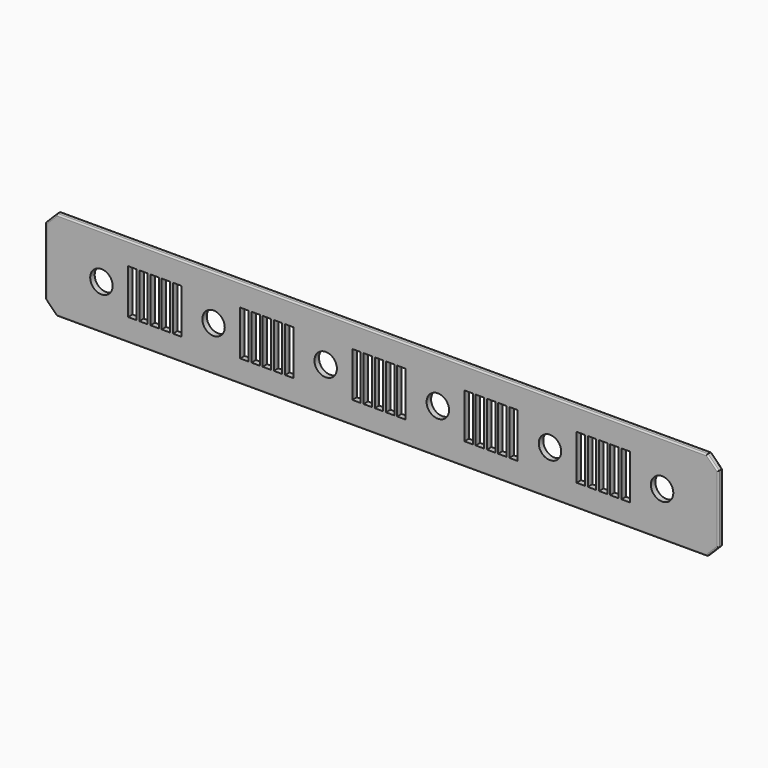
from build123d import *

# Parameters (mm, degrees)
F0_W     = 762
F0_H     = 101.6
F0_R     = 12.7
F1_DEPTH = 6.35
F2_W     = 9.525
F2_H     = 50.8
F3_DEPTH = 6.351
F4_SIZE  = 12.7
F5_R     = 1.6002


with BuildPart() as f1:
    # F0 (on Front) → F1 (new body)
    with BuildSketch(Plane.XZ):
        with Locations((-5.1130652428, -126.3789658944)):
            Rectangle(F0_W, F0_H)
        with Locations((-322.6130652428, -126.3789658944)):
            Circle(F0_R, mode=Mode.SUBTRACT)
        with Locations((-195.6130652428, -126.3789658944)):
            Circle(F0_R, mode=Mode.SUBTRACT)
        with Locations((-68.6130652428, -126.3789658944)):
            Circle(F0_R, mode=Mode.SUBTRACT)
        with Locations((58.3869347572, -126.3789658944)):
            Circle(F0_R, mode=Mode.SUBTRACT)
        with Locations((185.3869347572, -126.3789658944)):
            Circle(F0_R, mode=Mode.SUBTRACT)
        with Locations((312.3869347572, -126.3789658944)):
            Circle(F0_R, mode=Mode.SUBTRACT)
    extrude(amount=F1_DEPTH)

    # F2 (on face) → F3 (cut, through all)
    with BuildSketch(Plane.XZ.offset(6.35)):
        with Locations((-287.6753652428, -126.3789658944)):
            Rectangle(F2_W, F2_H)
        with Locations((-274.9753652428, -126.3789658944)):
            Rectangle(F2_W, F2_H)
        with Locations((-262.2753652428, -126.3789658944)):
            Rectangle(F2_W, F2_H)
        with Locations((-249.5753652428, -126.3789658944)):
            Rectangle(F2_W, F2_H)
        with Locations((-236.8753652428, -126.3789658944)):
            Rectangle(F2_W, F2_H)
        with Locations((-160.6753652428, -126.3789658944)):
            Rectangle(F2_W, F2_H)
        with Locations((-147.9753652428, -126.3789658944)):
            Rectangle(F2_W, F2_H)
        with Locations((-135.2753652428, -126.3789658944)):
            Rectangle(F2_W, F2_H)
        with Locations((-122.5753652428, -126.3789658944)):
            Rectangle(F2_W, F2_H)
        with Locations((-109.8753652428, -126.3789658944)):
            Rectangle(F2_W, F2_H)
        with Locations((-33.6753652428, -126.3789658944)):
            Rectangle(F2_W, F2_H)
        with Locations((-20.9753652428, -126.3789658944)):
            Rectangle(F2_W, F2_H)
        with Locations((-8.2753652428, -126.3789658944)):
            Rectangle(F2_W, F2_H)
        with Locations((4.4246347572, -126.3789658944)):
            Rectangle(F2_W, F2_H)
        with Locations((17.1246347572, -126.3789658944)):
            Rectangle(F2_W, F2_H)
        with Locations((93.3246347572, -126.3789658944)):
            Rectangle(F2_W, F2_H)
        with Locations((106.0246347572, -126.3789658944)):
            Rectangle(F2_W, F2_H)
        with Locations((118.7246347572, -126.3789658944)):
            Rectangle(F2_W, F2_H)
        with Locations((131.4246347572, -126.3789658944)):
            Rectangle(F2_W, F2_H)
        with Locations((144.1246347572, -126.3789658944)):
            Rectangle(F2_W, F2_H)
        with Locations((220.3246347572, -126.3789658944)):
            Rectangle(F2_W, F2_H)
        with Locations((233.0246347572, -126.3789658944)):
            Rectangle(F2_W, F2_H)
        with Locations((245.7246347572, -126.3789658944)):
            Rectangle(F2_W, F2_H)
        with Locations((258.4246347572, -126.3789658944)):
            Rectangle(F2_W, F2_H)
        with Locations((271.1246347572, -126.3789658944)):
            Rectangle(F2_W, F2_H)
    extrude(amount=-F3_DEPTH, mode=Mode.SUBTRACT)

    # F4
    f4_edges = [f1.edges().sort_by_distance(p)[0] for p in [
        (-386.113065, -3.175, -75.578966),
        (-386.113065, -3.175, -177.178966),
        (375.886935, -3.175, -75.578966),
        (375.886935, -3.175, -177.178966),
    ]]
    chamfer(f4_edges, length=F4_SIZE)

    # F5
    f5_edges = [f1.edges().sort_by_distance(p)[0] for p in [
        (-5.113065, -6.35, -177.178966),
        (-5.113065, 0, -177.178966),
        (369.536935, -6.35, -170.828966),
        (375.886935, -6.35, -126.378966),
        (369.536935, 0, -170.828966),
        (375.886935, 0, -126.378966),
        (369.536935, -6.35, -81.928966),
        (369.536935, 0, -81.928966),
        (-5.113065, -6.35, -75.578966),
        (-5.113065, 0, -75.578966),
        (-386.113065, -6.35, -126.378966),
        (-386.113065, 0, -126.378966),
        (-379.763065, -6.35, -170.828966),
        (-379.763065, 0, -170.828966),
        (-379.763065, -6.35, -81.928966),
        (-379.763065, 0, -81.928966),
    ]]
    fillet(f5_edges, radius=F5_R)


solid = f1.part
